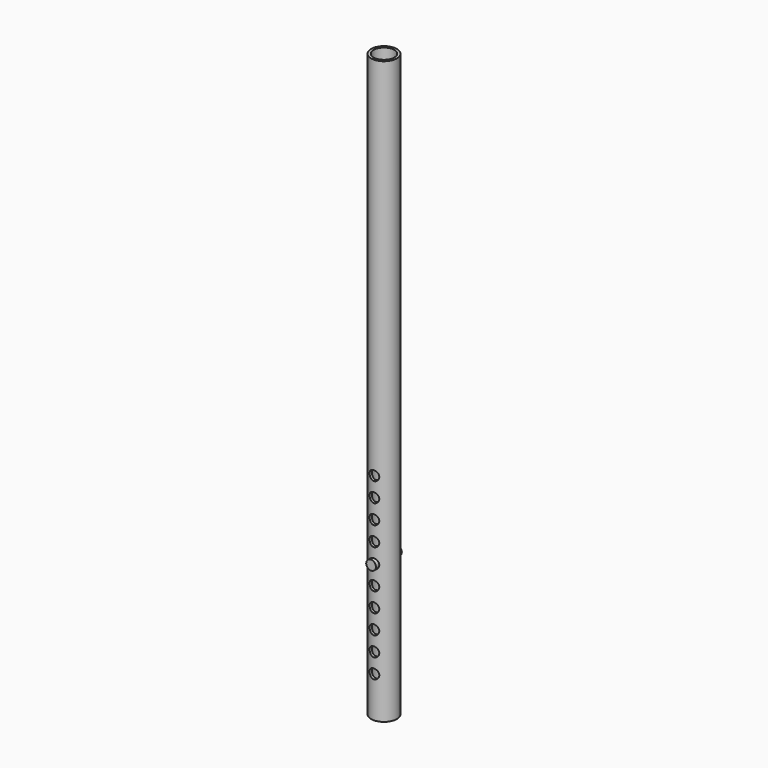
from build123d import *

# Parameters (mm, degrees)
F0_R     = 19.9258552982
F0_R_2   = 16
F1_DEPTH = 900
F2_R     = 7.5
F3_DEPTH = 30
F4_R     = 7.5
F5_DEPTH = 25


with BuildPart() as f1:
    # F0 (on Top) → F1 (new body)
    with BuildSketch(Plane.XY):
        Circle(F0_R)
        Circle(F0_R_2, mode=Mode.SUBTRACT)
    extrude(amount=F1_DEPTH)

    # F2 (on Front) → F3 (cut, symmetric)
    with BuildSketch(Plane.XZ):
        with Locations((0, 63.3276387161)):
            Circle(F2_R)
        with Locations((0, 93.3276387161)):
            Circle(F2_R)
        with Locations((0, 123.3276387161)):
            Circle(F2_R)
        with Locations((0, 153.3276387161)):
            Circle(F2_R)
        with Locations((0, 183.3276387161)):
            Circle(F2_R)
        with Locations((0, 213.3276387161)):
            Circle(F2_R)
        with Locations((0, 243.3276387161)):
            Circle(F2_R)
        with Locations((0, 273.3276387161)):
            Circle(F2_R)
        with Locations((0, 303.3276387161)):
            Circle(F2_R)
        with Locations((0, 333.3276387161)):
            Circle(F2_R)
    extrude(amount=F3_DEPTH, both=True, mode=Mode.SUBTRACT)


with BuildPart() as f5:
    # F4 (on Front) → F5 (new body, symmetric)
    with BuildSketch(Plane.XZ):
        with Locations((0, 213.3827656507)):
            Circle(F4_R)
    extrude(amount=F5_DEPTH, both=True)


solid = Compound([f1.part, f5.part])
